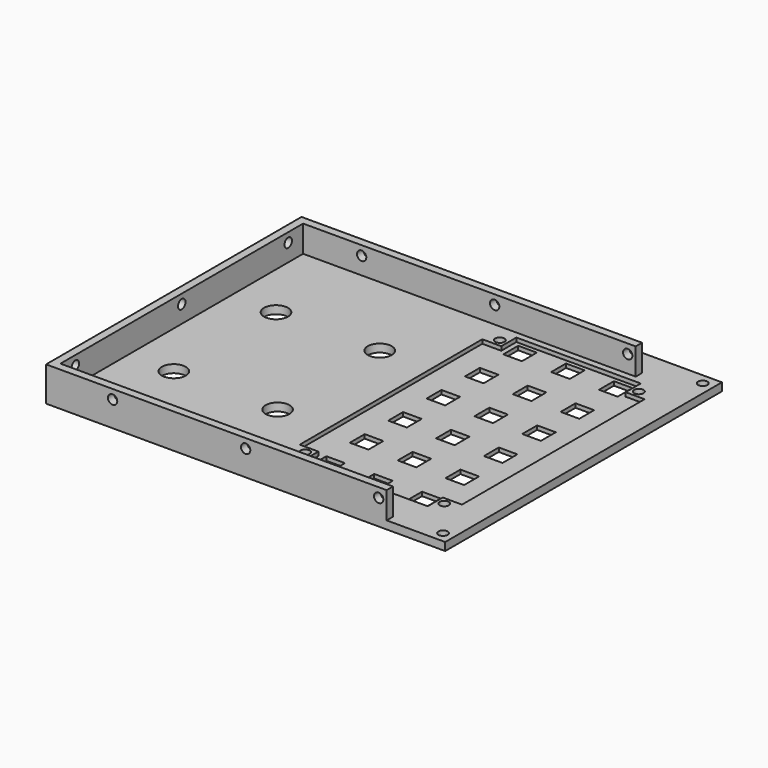
from build123d import *

# Parameters (mm, degrees)
SKETCH013_R     = 4.5
SKETCH013_R_2   = 1.75
SKETCH013_W     = 7
SKETCH013_H     = 7
PAD004_DEPTH    = 3
PAD_DEPTH       = 10
SKETCH015_R     = 1.75
POCKET005_DEPTH = 5
SKETCH004_R     = 1.75
POCKET006_DEPTH = 5
SKETCH014_R     = 1.75
POCKET007_DEPTH = 5
POCKET_DEPTH    = 2


with BuildPart() as part:
    # Sketch013 → Pad004 (new body)
    with BuildSketch(Plane.XY):
        Polygon((0, 65), (150, 64.999907), (150, -65), (0, -65), align=None)
        with Locations((20, 18)):
            Circle(SKETCH013_R, mode=Mode.SUBTRACT)
        with Locations((59, 18)):
            Circle(SKETCH013_R, mode=Mode.SUBTRACT)
        with Locations((20, -30)):
            Circle(SKETCH013_R, mode=Mode.SUBTRACT)
        with Locations((59, -30)):
            Circle(SKETCH013_R, mode=Mode.SUBTRACT)
        with Locations((146, 60.999907)):
            Circle(SKETCH013_R_2, mode=Mode.SUBTRACT)
        with Locations((146, -61)):
            Circle(SKETCH013_R_2, mode=Mode.SUBTRACT)
        with Locations((82.370022, 45.189481)):
            Circle(SKETCH013_R_2, mode=Mode.SUBTRACT)
        with Locations((134.63, 45.189481)):
            Circle(SKETCH013_R_2, mode=Mode.SUBTRACT)
        with Locations((82.271087, -46.110465)):
            Circle(SKETCH013_R_2, mode=Mode.SUBTRACT)
        with Locations((134.531066, -46.110465)):
            Circle(SKETCH013_R_2, mode=Mode.SUBTRACT)
        with Locations((90.500022, 44.539481)):
            Rectangle(SKETCH013_W, SKETCH013_H, mode=Mode.SUBTRACT)
        with Locations((108.500011, 44.519694)):
            Rectangle(SKETCH013_W, SKETCH013_H, mode=Mode.SUBTRACT)
        with Locations((126.5, 44.499907)):
            Rectangle(SKETCH013_W, SKETCH013_H, mode=Mode.SUBTRACT)
        with Locations((90.480235, 26.539492)):
            Rectangle(SKETCH013_W, SKETCH013_H, mode=Mode.SUBTRACT)
        with Locations((108.480224, 26.519705)):
            Rectangle(SKETCH013_W, SKETCH013_H, mode=Mode.SUBTRACT)
        with Locations((126.480213, 26.499918)):
            Rectangle(SKETCH013_W, SKETCH013_H, mode=Mode.SUBTRACT)
        with Locations((90.460448, 8.539503)):
            Rectangle(SKETCH013_W, SKETCH013_H, mode=Mode.SUBTRACT)
        with Locations((108.460437, 8.519716)):
            Rectangle(SKETCH013_W, SKETCH013_H, mode=Mode.SUBTRACT)
        with Locations((126.460426, 8.499929)):
            Rectangle(SKETCH013_W, SKETCH013_H, mode=Mode.SUBTRACT)
        with Locations((90.440661, -9.460486)):
            Rectangle(SKETCH013_W, SKETCH013_H, mode=Mode.SUBTRACT)
        with Locations((108.44065, -9.480273)):
            Rectangle(SKETCH013_W, SKETCH013_H, mode=Mode.SUBTRACT)
        with Locations((126.440639, -9.50006)):
            Rectangle(SKETCH013_W, SKETCH013_H, mode=Mode.SUBTRACT)
        with Locations((90.420874, -27.460475)):
            Rectangle(SKETCH013_W, SKETCH013_H, mode=Mode.SUBTRACT)
        with Locations((108.420863, -27.480262)):
            Rectangle(SKETCH013_W, SKETCH013_H, mode=Mode.SUBTRACT)
        with Locations((126.420852, -27.500049)):
            Rectangle(SKETCH013_W, SKETCH013_H, mode=Mode.SUBTRACT)
        with Locations((90.401087, -45.460465)):
            Rectangle(SKETCH013_W, SKETCH013_H, mode=Mode.SUBTRACT)
        with Locations((108.401076, -45.480251)):
            Rectangle(SKETCH013_W, SKETCH013_H, mode=Mode.SUBTRACT)
        with Locations((126.401066, -45.500038)):
            Rectangle(SKETCH013_W, SKETCH013_H, mode=Mode.SUBTRACT)
    extrude(amount=PAD004_DEPTH)

    # Sketch001 (on DatumPlane) → Pad (join)
    with BuildSketch(Plane.XY.offset(3)):
        Polygon((0, 55), (3, 55), (128, 55), (128, 52), (3, 52), (3, -62), (128, -62), (128, -65), (3, -65), (0, -65), align=None)
    extrude(amount=PAD_DEPTH)

    # Sketch015 → Pocket005 (cut)
    with BuildSketch(Plane.XZ.offset(65)):
        with Locations((25, 9.5)):
            Circle(SKETCH015_R)
        with Locations((75, 9.5)):
            Circle(SKETCH015_R)
        with Locations((125, 9.5)):
            Circle(SKETCH015_R)
    extrude(amount=-POCKET005_DEPTH, mode=Mode.SUBTRACT)

    # Sketch004 (on DatumPlane) → Pocket006 (cut, symmetric)
    with BuildSketch(Plane.XZ.offset(-55)):
        with Locations((25, 9.5)):
            Circle(SKETCH004_R)
        with Locations((75, 9.5)):
            Circle(SKETCH004_R)
        with Locations((125, 9.5)):
            Circle(SKETCH004_R)
    extrude(amount=POCKET006_DEPTH, both=True, mode=Mode.SUBTRACT)

    # Sketch014 → Pocket007 (cut)
    with BuildSketch(Plane.YZ):
        with Locations((45, 9.5)):
            Circle(SKETCH014_R)
        with Locations((-5, 9.5)):
            Circle(SKETCH014_R)
        with Locations((-55, 9.5)):
            Circle(SKETCH014_R)
    extrude(amount=POCKET007_DEPTH, mode=Mode.SUBTRACT)

    # Sketch → Pocket (cut)
    with BuildSketch(Plane.XY.offset(3.5)):
        Polygon((85.120022, 49.539508), (85.120022, 42.439481), (78.000011, 42.439481), (78.000011, -43.360465), (85.021087, -43.360465), (85.021087, -50.460443), (131.781066, -50.460443), (131.781066, -43.360465), (139.000011, -43.360465), (139.000011, 42.439481), (131.88, 42.439481), (131.88, 49.539508), align=None)
    extrude(amount=-POCKET_DEPTH, mode=Mode.SUBTRACT)


solid = part.part
